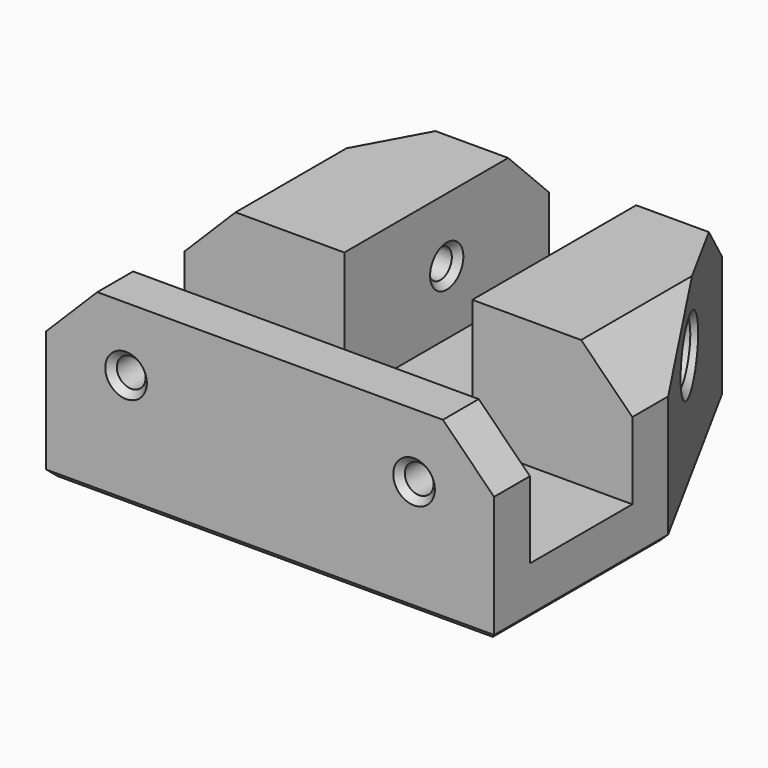
from build123d import *

# Parameters (mm, degrees)
PAD014_DEPTH            = 28
POCKET008_DEPTH         = 20
SKETCH024_R             = 2.2
POCKET009_DEPTH         = 28.001
SKETCH025_R             = 2.25
POCKET010_DEPTH         = 17.001
SKETCH026_R             = 2.25
POCKET011_DEPTH         = 35.001
POCKET011_DEPTH_BACK    = 35.001
SKETCH027_R             = 4.5
POCKET012_DEPTH         = 219.723582
CHAMFER005_SIZE         = 8
CHAMFER006_SIZE         = 1
BODY008_PITCH_ANGLE     = 90
BODY008_PLACEMENT_ANGLE = -90


with BuildPart() as part:
    # Sketch022 → Pad014 (new body)
    with BuildSketch(Plane.YZ):
        Polygon((-35, 17), (-35, -17), (-17, -50), (17, -50), (35, -17), (35, 17), align=None)
    extrude(amount=PAD014_DEPTH)

    # Sketch023 → Pocket008 (cut)
    with BuildSketch(Plane.YZ):
        Polygon((-35, 10), (35, 10), (35, -10), (10, -10), (10, -50), (-10, -50), (-10, -10), (-35, -10), align=None)
    extrude(amount=POCKET008_DEPTH, mode=Mode.SUBTRACT)

    # Sketch024 → Pocket009 (cut, through all)
    with BuildSketch(Plane.YZ):
        with Locations((-22.5, 0)):
            Circle(SKETCH024_R)
        with Locations((22.5, 0)):
            Circle(SKETCH024_R)
        with Locations((0, -40)):
            Circle(SKETCH024_R)
    extrude(amount=POCKET009_DEPTH, mode=Mode.SUBTRACT)

    # Sketch025 → Pocket010 (cut, through all)
    with BuildSketch(Plane.XY):
        with Locations((10, 22.5)):
            Circle(SKETCH025_R)
        with Locations((10, -22.5)):
            Circle(SKETCH025_R)
    extrude(amount=POCKET010_DEPTH, mode=Mode.SUBTRACT)

    # Sketch026 → Pocket011 (cut, two sides)
    with BuildSketch(Plane.XZ) as pocket011_sk:
        with Locations((10, -30)):
            Circle(SKETCH026_R)
    extrude(amount=-POCKET011_DEPTH, mode=Mode.SUBTRACT)
    extrude(pocket011_sk.sketch, amount=POCKET011_DEPTH_BACK, mode=Mode.SUBTRACT)

    # Sketch027 (on Plane of DatumPlane) → Pocket012 (cut, through all)
    with BuildSketch(Plane.XZ.offset(-17)):
        with Locations((10, -30)):
            Circle(SKETCH027_R)
    pocket012 = extrude(amount=-POCKET012_DEPTH, mode=Mode.SUBTRACT)

    # Mirrored002: Pocket012 across XZ
    add(pocket012.mirror(Plane.XZ), mode=Mode.SUBTRACT)

    # Chamfer005
    chamfer005_edges = [part.edges().sort_by_distance(p)[0] for p in [
        (0, -35, 13.5),
        (0, 35, 13.5),
        (0, -13.5, -50),
        (0, 13.5, -50),
        (0, 35, -13.5),
        (0, -35, -13.5),
    ]]
    chamfer(chamfer005_edges, length=CHAMFER005_SIZE)

    # Chamfer006
    chamfer006_edges = [part.edges().sort_by_distance(p)[0] for p in [
        (28, -35, 0),
        (28, 0, 17),
        (28, -26, -33.5),
        (28, 35, 0),
        (28, 0, -50),
        (28, 26, -33.5),
        (28, 20.3, 0),
        (28, -2.2, -40),
        (28, -24.7, 0),
        (7.75, -22.5, 17),
        (7.75, 22.5, 17),
        (7.75, 22.5, 10),
        (7.75, -22.5, 10),
        (7.75, 10, -30),
        (7.75, -10, -30),
        (7.75, -17, -30),
        (7.75, 17, -30),
        (5.5, 27.909049, -30.000078),
        (5.5, -27.909133, -29.999922),
        (20, -2.2, -40),
        (20, 20.3, 0),
        (20, -24.7, 0),
    ]]
    chamfer(chamfer006_edges, length=CHAMFER006_SIZE)


with BuildPart() as part_1:
    # Body008 pitch: moved
    add(part.part.rotate(Axis((0, 0, 0), (0, 1, 0)), BODY008_PITCH_ANGLE))


with BuildPart() as part_2:
    # Body008 placement: moved
    add(part_1.part.moved(Location((0, 0, -17.3))).rotate(Axis((0, 0, -17.3), (0, 0, 1)), BODY008_PLACEMENT_ANGLE))


solid = part_2.part
